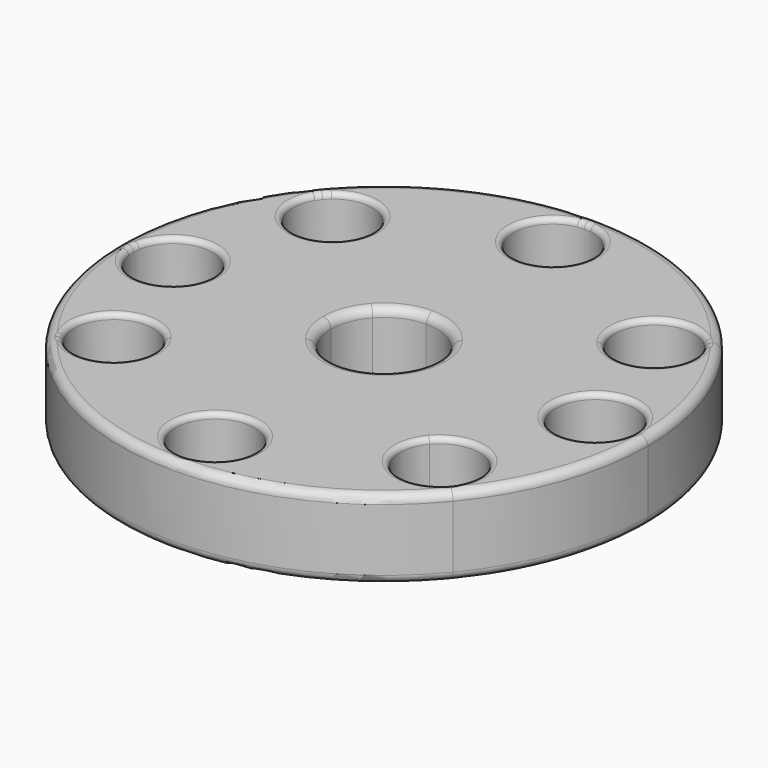
from build123d import *

# Parameters (mm, degrees)
F1_DEPTH = 19.05
F2_R     = 2.032
F3_R     = 2.032
F4_R     = 1.27
F5_R     = 1.27


with BuildPart() as f1:
    # F0 (on Top) → F1 (new body)
    with BuildSketch(Plane.XY):
        with BuildLine():
            Line((0, 60.325), (0, 63.5))
            ThreePointArc((0, 63.5), (-26.6940995019, 57.6166213152), (-48.4416951922, 41.0566945443))
            Line((-48.4416951922, 41.0566945443), (-46.0065018407, 39.0189375258))
            ThreePointArc((-46.0065018407, 39.0189375258), (-35.4499635399, 41.8590472068), (-29.1766447001, 32.9062714008))
            ThreePointArc((-29.1766447001, 32.9062714008), (-29.7488688942, 29.6545902406), (-31.3967875595, 26.7936052758))
            Line((-31.3967875595, 26.7936052758), (-9.4786005305, 8.4525813798))
            ThreePointArc((-9.4786005305, 8.4525813798), (-5.1933715675, 11.5896027439), (0, 12.7))
            Line((0, 12.7), (0, 41.275))
            ThreePointArc((0, 41.275), (-9.525, 50.8), (0, 60.325))
        make_face()
        with BuildLine():
            Line((-46.0065018407, 39.0189375258), (-48.4416951922, 41.0566945443))
            ThreePointArc((-48.4416951922, 41.0566945443), (-59.6166824165, 21.8655248656), (-63.5, 0))
            Line((-63.5, 0), (-60.325, 0))
            ThreePointArc((-60.325, 0), (-50.8, 9.525), (-41.275, 0))
            Line((-41.275, 0), (-12.7, 0))
            ThreePointArc((-12.7, 0), (-11.8673549441, 4.5228184389), (-9.4786005305, 8.4525813798))
            Line((-9.4786005305, 8.4525813798), (-31.3967875595, 26.7936052758))
            ThreePointArc((-31.3967875595, 26.7936052758), (-44.8143108251, 25.6014142602), (-46.0065018407, 39.0189375258))
        make_face()
        with BuildLine():
            Line((60.325, 0), (63.5, 0))
            ThreePointArc((63.5, 0), (60.1915530099, 20.229358523), (50.6109623227, 38.3507560912))
            Line((50.6109623227, 38.3507560912), (48.0891968506, 36.4214019109))
            ThreePointArc((48.0891968506, 36.4214019109), (49.545980947, 33.6889777181), (50.0493070296, 30.633650448))
            ThreePointArc((50.0493070296, 30.633650448), (43.5796342996, 21.6119765306), (32.9594172085, 24.8458989852))
            Line((32.9594172085, 24.8458989852), (10.262714452, 7.4810889632))
            ThreePointArc((10.262714452, 7.4810889632), (12.0753151831, 3.9340517574), (12.7, 0))
            Line((12.7, 0), (41.275, 0))
            ThreePointArc((41.275, 0), (50.8, 9.525), (60.325, 0))
        make_face()
        with BuildLine():
            ThreePointArc((-50.2531510536, -38.8184338837), (-27.9935657642, -56.9965812642), (0, -63.5))
            Line((0, -63.5), (0, -60.325))
            ThreePointArc((0, -60.325), (-9.525, -50.8), (0, -41.275))
            Line((0, -41.275), (0, -12.7))
            ThreePointArc((0, -12.7), (-5.4927525979, -11.450749709), (-9.9049031829, -7.9487667557))
            Line((-9.9049031829, -7.9487667557), (-32.6016059394, -25.3135767777))
            ThreePointArc((-32.6016059394, -25.3135767777), (-31.144821843, -28.0460009704), (-30.6414957605, -31.1013282405))
            ThreePointArc((-30.6414957605, -31.1013282405), (-37.1111684904, -40.123002158), (-47.7313855815, -36.8890797033))
            Line((-47.7313855815, -36.8890797033), (-50.2531510536, -38.8184338837))
        make_face()
        with BuildLine():
            ThreePointArc((0, -63.5), (27.0560703276, -57.4475330926), (48.9544722992, -40.4439073521))
            Line((48.9544722992, -40.4439073521), (46.5192789477, -38.4061503336))
            ThreePointArc((46.5192789477, -38.4061503336), (33.1017556821, -39.5983413493), (31.9095646665, -26.1808180837))
            Line((31.9095646665, -26.1808180837), (9.9913776375, -7.8397941877))
            ThreePointArc((9.9913776375, -7.8397941877), (5.5553853969, -11.4204944329), (0, -12.7))
            Line((0, -12.7), (0, -41.275))
            ThreePointArc((0, -41.275), (6.7351920908, -44.0648079092), (9.525, -50.8))
            ThreePointArc((9.525, -50.8), (6.7351920908, -57.5351920908), (0, -60.325))
            Line((0, -60.325), (0, -63.5))
        make_face()
        with BuildLine():
            ThreePointArc((48.9544722992, -40.4439073521), (59.7530710131, -21.4900094114), (63.5, 0))
            Line((63.5, 0), (60.325, 0))
            ThreePointArc((60.325, 0), (50.8, -9.525), (41.275, 0))
            Line((41.275, 0), (12.7, 0))
            ThreePointArc((12.7, 0), (12.0037597443, -4.1472583717), (9.9913776375, -7.8397941877))
            Line((9.9913776375, -7.8397941877), (31.9095646665, -26.1808180837))
            ThreePointArc((31.9095646665, -26.1808180837), (42.4661029673, -23.3407084027), (48.7394218071, -32.2934842087))
            ThreePointArc((48.7394218071, -32.2934842087), (48.1671976131, -35.5451653689), (46.5192789477, -38.4061503336))
            Line((46.5192789477, -38.4061503336), (48.9544722992, -40.4439073521))
        make_face()
        with BuildLine():
            ThreePointArc((-63.5, 0), (-60.0971092978, -20.5082289349), (-50.2531510536, -38.8184338837))
            Line((-50.2531510536, -38.8184338837), (-47.7313855815, -36.8890797033))
            ThreePointArc((-47.7313855815, -36.8890797033), (-45.9542472233, -23.5364384195), (-32.6016059394, -25.3135767777))
            Line((-32.6016059394, -25.3135767777), (-9.9049031829, -7.9487667557))
            ThreePointArc((-9.9049031829, -7.9487667557), (-11.9808653782, -4.2129401596), (-12.7, 0))
            Line((-12.7, 0), (-41.275, 0))
            ThreePointArc((-41.275, 0), (-50.8, -9.525), (-60.325, 0))
            Line((-60.325, 0), (-63.5, 0))
        make_face()
        with BuildLine():
            Line((48.0891968506, 36.4214019109), (50.6109623227, 38.3507560912))
            ThreePointArc((50.6109623227, 38.3507560912), (28.2575387128, 56.8661718942), (0, 63.5))
            Line((0, 63.5), (0, 60.325))
            ThreePointArc((0, 60.325), (6.7351920908, 57.5351920908), (9.525, 50.8))
            ThreePointArc((9.525, 50.8), (6.7351920908, 44.0648079092), (0, 41.275))
            Line((0, 41.275), (0, 12.7))
            ThreePointArc((0, 12.7), (5.7567425758, 11.3203319261), (10.262714452, 7.4810889632))
            Line((10.262714452, 7.4810889632), (32.9594172085, 24.8458989852))
            ThreePointArc((32.9594172085, 24.8458989852), (34.7365555668, 38.1985402691), (48.0891968506, 36.4214019109))
        make_face()
    extrude(amount=F1_DEPTH)

    # F2
    f2_edges = [f1.edges().sort_by_distance(p)[0] for p in [
        (-50.610962, -38.350756, 19.05),
    ]]
    fillet(f2_edges, radius=F2_R)

    # F3
    f3_edges = [f1.edges().sort_by_distance(p)[0] for p in [
        (-50.610962, -38.350756, 0),
        (0, -12.7, 19.05),
    ]]
    fillet(f3_edges, radius=F3_R)

    # F4
    f4_edges = [f1.edges().sort_by_distance(p)[0] for p in [
        (-47.731386, -36.88908, 19.05),
        (-60.325, 0, 19.05),
        (-48.226645, 32.906271, 19.05),
        (0, 41.275, 19.05),
        (48.089197, 36.421402, 19.05),
        (41.275, 0, 19.05),
        (29.689422, -32.293484, 19.05),
        (0, -60.325, 19.05),
    ]]
    fillet(f4_edges, radius=F4_R)

    # F5
    f5_edges = [f1.edges().sort_by_distance(p)[0] for p in [
        (48.089197, 36.421402, 0),
        (0, 41.275, 0),
        (0, -12.7, 0),
        (29.689422, -32.293484, 0),
        (41.275, 0, 0),
        (0, -60.325, 0),
        (-47.731386, -36.88908, 0),
        (-60.325, 0, 0),
        (-48.226645, 32.906271, 0),
    ]]
    fillet(f5_edges, radius=F5_R)


solid = f1.part
